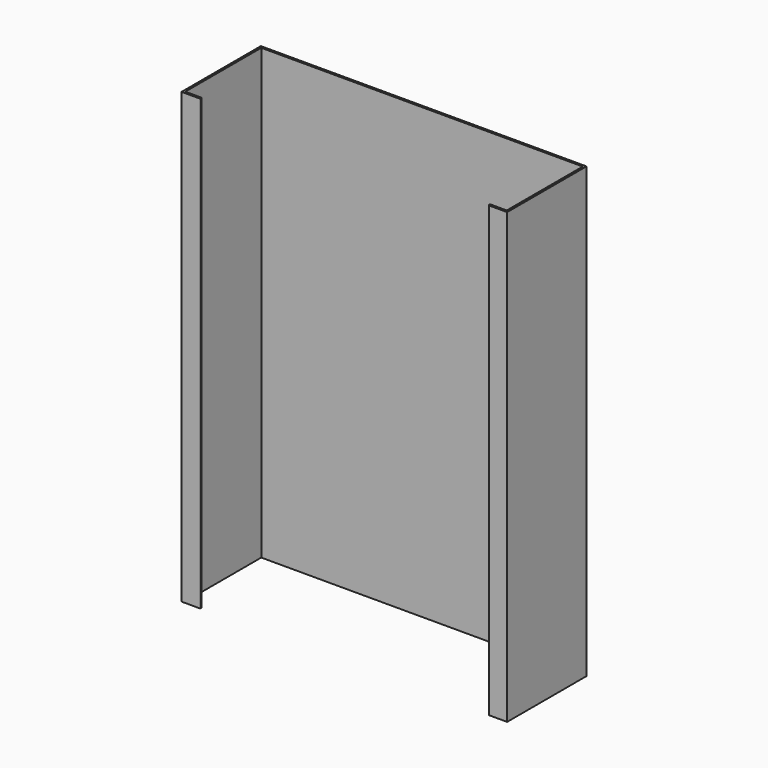
from build123d import *

# Parameters (mm, degrees)
F1_DEPTH = 2730.5


with BuildPart() as f1:
    # F0 (on Top) → F1 (new body)
    with BuildSketch(Plane.XY):
        with BuildLine():
            Line((-1002.333329, -544.849776), (-1002.333329, 33.000224))
            Line((-1002.333329, 33.000224), (953.466671, 33.000224))
            Line((953.466671, 33.000224), (953.466671, -544.849776))
            Line((953.466671, -544.849776), (858.216671, -544.849776))
            ThreePointArc((858.216671, -544.849776), (853.726543, -546.709648), (851.866671, -551.199776))
            ThreePointArc((851.866671, -551.199776), (853.726543, -555.689904), (858.216671, -557.549776))
            Line((858.216671, -557.549776), (953.466671, -557.549776))
            Line((953.466671, -557.549776), (966.166671, -557.549776))
            Line((966.166671, -557.549776), (966.166671, -544.849776))
            Line((966.166671, -544.849776), (966.166671, 33.000224))
            Line((966.166671, 33.000224), (966.166671, 45.700224))
            Line((966.166671, 45.700224), (953.466671, 45.700224))
            Line((953.466671, 45.700224), (-1002.333329, 45.700224))
            Line((-1002.333329, 45.700224), (-1015.033329, 45.700224))
            Line((-1015.033329, 45.700224), (-1015.033329, 33.000224))
            Line((-1015.033329, 33.000224), (-1015.033329, -544.849776))
            Line((-1015.033329, -544.849776), (-1015.033329, -557.549776))
            Line((-1015.033329, -557.549776), (-1002.333329, -557.549776))
            Line((-1002.333329, -557.549776), (-907.083329, -557.549776))
            ThreePointArc((-907.083329, -557.549776), (-902.593201, -555.689904), (-900.733329, -551.199776))
            ThreePointArc((-900.733329, -551.199776), (-902.593201, -546.709648), (-907.083329, -544.849776))
            Line((-907.083329, -544.849776), (-1002.333329, -544.849776))
        make_face()
        with BuildLine():
            Line((-1002.333329, -544.849776), (-1002.333329, 33.000224))
            Line((-1002.333329, 33.000224), (953.466671, 33.000224))
            Line((953.466671, 33.000224), (953.466671, -544.849776))
            Line((953.466671, -544.849776), (858.216671, -544.849776))
            ThreePointArc((858.216671, -544.849776), (853.726543, -546.709648), (851.866671, -551.199776))
            ThreePointArc((851.866671, -551.199776), (853.726543, -555.689904), (858.216671, -557.549776))
            Line((858.216671, -557.549776), (953.466671, -557.549776))
            Line((953.466671, -557.549776), (966.166671, -557.549776))
            Line((966.166671, -557.549776), (966.166671, -544.849776))
            Line((966.166671, -544.849776), (966.166671, 33.000224))
            Line((966.166671, 33.000224), (966.166671, 45.700224))
            Line((966.166671, 45.700224), (953.466671, 45.700224))
            Line((953.466671, 45.700224), (-1002.333329, 45.700224))
            Line((-1002.333329, 45.700224), (-1015.033329, 45.700224))
            Line((-1015.033329, 45.700224), (-1015.033329, 33.000224))
            Line((-1015.033329, 33.000224), (-1015.033329, -544.849776))
            Line((-1015.033329, -544.849776), (-1015.033329, -557.549776))
            Line((-1015.033329, -557.549776), (-1002.333329, -557.549776))
            Line((-1002.333329, -557.549776), (-907.083329, -557.549776))
            ThreePointArc((-907.083329, -557.549776), (-902.593201, -555.689904), (-900.733329, -551.199776))
            ThreePointArc((-900.733329, -551.199776), (-902.593201, -546.709648), (-907.083329, -544.849776))
            Line((-907.083329, -544.849776), (-1002.333329, -544.849776))
        make_face()
    extrude(amount=F1_DEPTH)


solid = f1.part
